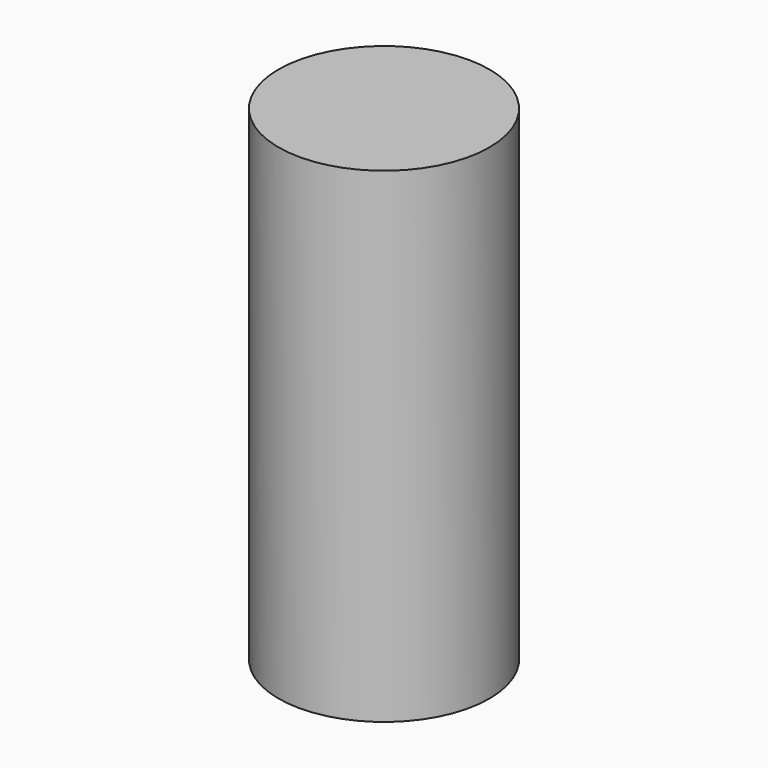
from build123d import *

# Parameters (mm, degrees)
SKETCH_R  = 15
PAD_DEPTH = 69


with BuildPart() as part:
    # Sketch → Pad (new body)
    with BuildSketch(Plane.XY):
        Circle(SKETCH_R)
    extrude(amount=PAD_DEPTH)


solid = part.part
